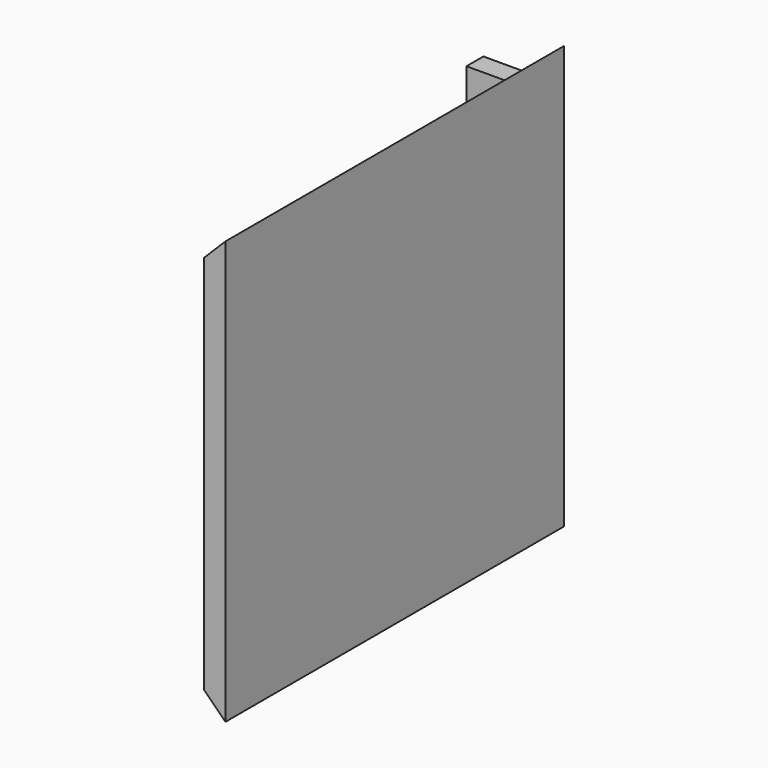
from build123d import *

# Parameters (mm, degrees)
F5_DEPTH  = 300
F6_W      = 12.5
F6_H      = 300
F7_DEPTH  = 15
F9_W      = 30
F9_H      = 30
F10_DEPTH = 15


with BuildPart() as f5:
    # F4 (on offset) → F5 (new body, through all)
    with BuildSketch(Plane.XZ.offset(150)):
        Polygon((85, 15), (100, 0), (100, 300), (85, 285), align=None)
    extrude(amount=-F5_DEPTH)

    # F6 (on offset) → F7 (cut)
    with BuildSketch(Plane.XZ.offset(-150)):
        with Locations((86.25, 150)):
            Rectangle(F6_W, F6_H)
    extrude(amount=F7_DEPTH, mode=Mode.SUBTRACT)

    # F9 (on offset) → F10 (join)
    with BuildSketch(Plane.XZ.offset(-135)):
        with Locations((70, 270)):
            Rectangle(F9_W, F9_H)
        with Locations((70, 30)):
            Rectangle(F9_W, F9_H)
    extrude(amount=F10_DEPTH)


solid = f5.part
